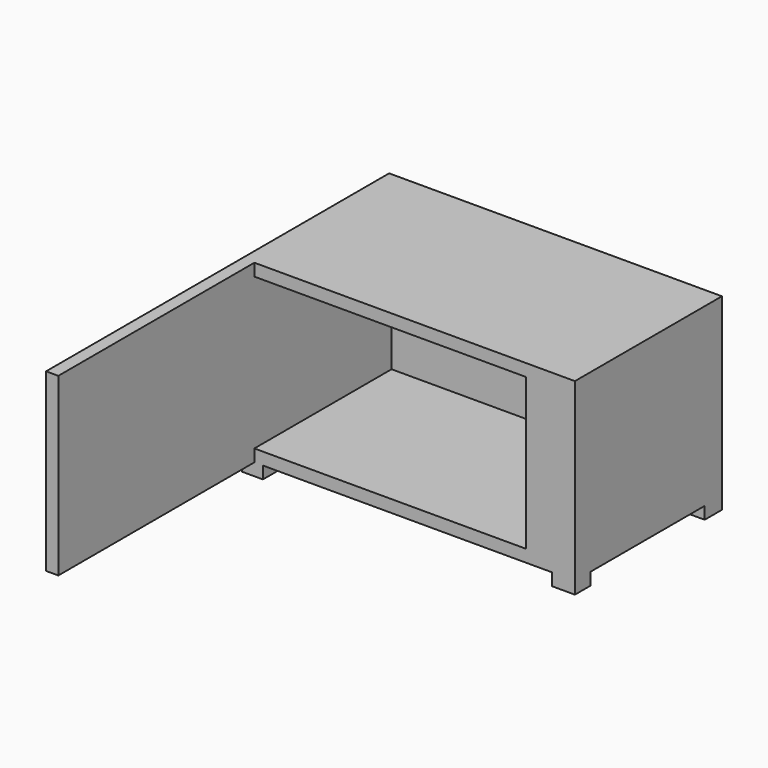
from build123d import *

# Parameters (mm, degrees)
F0_W     = 61.3819211721
F0_H     = 36.4417210221
F1_DEPTH = 38.1
F2_T     = -2.54
F3_DEPTH = 7.62
F4_W     = 2.54
F4_H     = 36.4417210221
F5_DEPTH = 50.8
F6_W     = 4.7011679959
F6_H     = 4.0546688199
F6_H_2   = 4.4637494721
F6_W_2   = 4.3158759363
F7_DEPTH = 2.54


with BuildPart() as f1:
    # F0 (on Front) → F1 (new body)
    with BuildSketch(Plane.XZ):
        with Locations((30.6909605861, 18.2208605111)):
            Rectangle(F0_W, F0_H)
    extrude(amount=F1_DEPTH)

    # F2
    f2_openings = [f1.faces().sort_by_distance(p)[0] for p in [
        (30.690961, -38.1, 18.220861),
    ]]
    offset(amount=F2_T, openings=f2_openings)

    # F3 (add): a face of the model
    f3_faces = [f1.faces().sort_by_distance(p)[0] for p in [
        (61.3819211721, -19.05, 18.2208605111),
    ]]
    extrude(f3_faces, amount=F3_DEPTH)

    # F4 (on face) → F5 (join)
    with BuildSketch(Plane.XZ.offset(38.1)):
        with Locations((1.27, 18.2208605111)):
            Rectangle(F4_W, F4_H)
    extrude(amount=F5_DEPTH)

    # F6 (on face) → F7 (join)
    with BuildSketch(Plane(origin=(0, 0, 0), x_dir=(1, 0, 0), z_dir=(0, 0, -1))):
        Polygon((4.3158759363, 38.1), (2.54, 38.1), (0, 38.1), (0, 34.0453311801), (4.3158759363, 34.0453311801), align=None)
        with Locations((66.6513371742, 36.07266559)):
            Rectangle(F6_W, F6_H)
        with Locations((66.6513371742, 2.231874736)):
            Rectangle(F6_W, F6_H_2)
        with Locations((2.1579379681, 2.231874736)):
            Rectangle(F6_W_2, F6_H_2)
    extrude(amount=F7_DEPTH)


solid = f1.part
